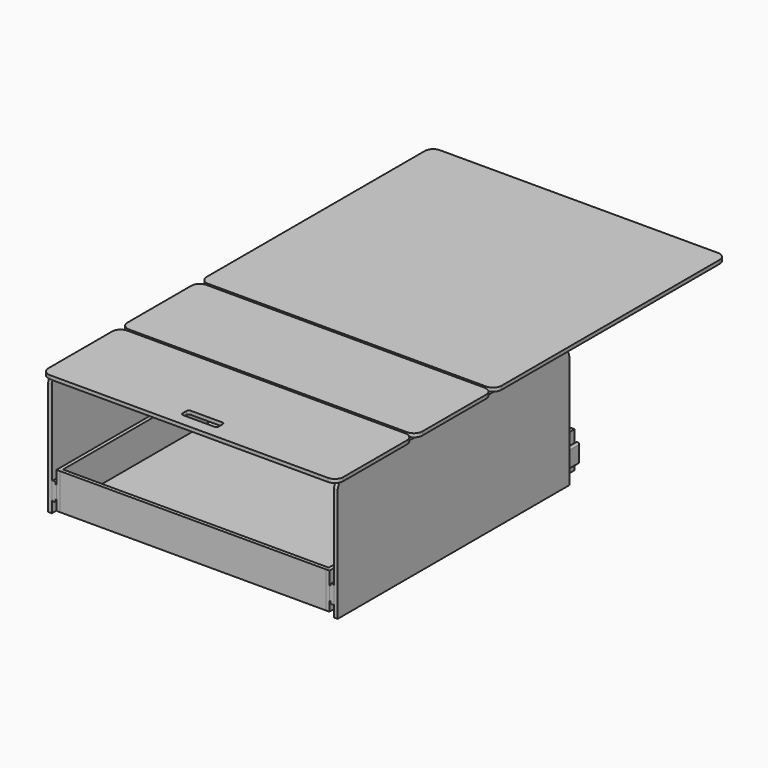
from build123d import *

# Parameters (mm, degrees)
F0_W      = 15
F0_H      = 1200
F1_DEPTH  = 500
F2_R      = 30
F2_2_R    = 30
F4_W      = 1222
F4_H      = 1200
F5_DEPTH  = 15
F6_W      = 1222
F6_H      = 400
F7_DEPTH  = 15
F8_W      = 1222
F8_H      = 400
F8_W_2    = 150
F8_H_2    = 40
F9_DEPTH  = 15
F10_R     = 10
F11_R     = 35
F11_2_R   = 35
F11_3_R   = 35
F13_W     = 1101.2
F13_H     = 1240
F14_DEPTH = 15
F15_W     = 1101.2
F15_H     = 150
F16_DEPTH = 15
F17_W     = 1101.2
F17_H     = 150
F18_DEPTH = 15
F19_W     = 1270
F19_H     = 150
F20_DEPTH = 15
F21_W     = 1270
F21_H     = 150
F22_DEPTH = 15
F24_DEPTH = 1270
F25_W     = 1160
F25_H     = 60
F26_DEPTH = 12


with BuildPart() as f1:
    # F0 (on Top) → F1 (new body)
    with BuildSketch(Plane.XY):
        with Locations((592.5, 600)):
            Rectangle(F0_W, F0_H)
    extrude(amount=F1_DEPTH)

    # F2#2
    f2_2_edges = [f1.edges().sort_by_distance(p)[0] for p in [
        (592.5, 1200, 500),
        (592.5, 0, 500),
    ]]
    fillet(f2_2_edges, radius=F2_2_R)


with BuildPart() as f1b:
    # F0 (on Top) → F1, piece 2 (new body)
    with BuildSketch(Plane.XY):
        with Locations((-592.5, 600)):
            Rectangle(F0_W, F0_H)
    extrude(amount=F1_DEPTH)

    # F2
    f2_edges = [f1b.edges().sort_by_distance(p)[0] for p in [
        (-592.5, 0, 500),
        (-592.5, 1200, 500),
    ]]
    fillet(f2_edges, radius=F2_R)


with BuildPart() as f5:
    # F4 (on offset) → F5 (new body)
    with BuildSketch(Plane.XY.offset(500)):
        with Locations((0, 1400)):
            Rectangle(F4_W, F4_H)
    extrude(amount=F5_DEPTH)

    # F11#2
    f11_2_edges = [f5.edges().sort_by_distance(p)[0] for p in [
        (-611, 2000, 507.5),
        (611, 2000, 507.5),
        (611, 800, 507.5),
        (-611, 800, 507.5),
    ]]
    fillet(f11_2_edges, radius=F11_2_R)


with BuildPart() as f7:
    # F6 (on offset) → F7 (new body)
    with BuildSketch(Plane.XY.offset(500)):
        with Locations((0, 590)):
            Rectangle(F6_W, F6_H)
    extrude(amount=F7_DEPTH)

    # F11#3
    f11_3_edges = [f7.edges().sort_by_distance(p)[0] for p in [
        (611, 790, 507.5),
        (611, 390, 507.5),
        (-611, 790, 507.5),
        (-611, 390, 507.5),
    ]]
    fillet(f11_3_edges, radius=F11_3_R)


with BuildPart() as f9:
    # F8 (on offset) → F9 (new body)
    with BuildSketch(Plane.XY.offset(500)):
        with Locations((0, 180)):
            Rectangle(F8_W, F8_H)
        with Locations((0, 50)):
            Rectangle(F8_W_2, F8_H_2, mode=Mode.SUBTRACT)
    extrude(amount=F9_DEPTH)

    # F10
    f10_edges = [f9.edges().sort_by_distance(p)[0] for p in [
        (-75, 70, 507.5),
        (75, 70, 507.5),
        (75, 30, 507.5),
        (-75, 30, 507.5),
    ]]
    fillet(f10_edges, radius=F10_R)

    # F11
    f11_edges = [f9.edges().sort_by_distance(p)[0] for p in [
        (611, -20, 507.5),
        (-611, -20, 507.5),
        (611, 380, 507.5),
        (-611, 380, 507.5),
    ]]
    fillet(f11_edges, radius=F11_R)


with BuildPart() as f14:
    # F13 (on offset) → F14 (new body)
    with BuildSketch(Plane.XY.offset(15)):
        with Locations((0, 635)):
            Rectangle(F13_W, F13_H)
    extrude(amount=F14_DEPTH)


with BuildPart() as f16:
    # F15 (on Front) → F16 (new body)
    with BuildSketch(Plane.XZ):
        with Locations((0, 90)):
            Rectangle(F15_W, F15_H)
    extrude(amount=-F16_DEPTH)


with BuildPart() as f18:
    # F17 (on face) → F18 (new body)
    with BuildSketch(Plane(origin=(0, 1255, 0), x_dir=(-1, 0, 0), z_dir=(0, 1, 0))):
        with Locations((0, 90)):
            Rectangle(F17_W, F17_H)
    extrude(amount=F18_DEPTH)


with BuildPart() as f20:
    # F19 (on face) → F20 (new body)
    with BuildSketch(Plane.YZ.offset(550.6)):
        with Locations((635, 90)):
            Rectangle(F19_W, F19_H)
    extrude(amount=F20_DEPTH)


with BuildPart() as f22:
    # F21 (on face) → F22 (new body)
    with BuildSketch(Plane(origin=(-550.6, 0, 0), x_dir=(0, -1, 0), z_dir=(-1, 0, 0))):
        with Locations((-635, 90)):
            Rectangle(F21_W, F21_H)
    extrude(amount=F22_DEPTH)


with BuildPart() as f24:
    # F23 (on Front) → F24 (new body)
    with BuildSketch(Plane.XZ):
        with BuildLine():
            Line((576, 45), (579, 45))
            ThreePointArc((579, 45), (583.2426406871, 46.7573593129), (585, 51))
            Line((585, 51), (585, 115.2))
            ThreePointArc((585, 115.2), (583.2426406871, 119.4426406871), (579, 121.2))
            Line((579, 121.2), (576, 121.2))
            ThreePointArc((576, 121.2), (571.7573593129, 119.4426406871), (570, 115.2))
            Line((570, 115.2), (570, 111.2))
            Line((570, 111.2), (570, 55))
            Line((570, 55), (570, 51))
            ThreePointArc((570, 51), (571.7573593129, 46.7573593129), (576, 45))
        make_face()
        with BuildLine():
            Line((567.9, 55), (570, 55))
            Line((570, 55), (570, 111.2))
            Line((570, 111.2), (567.9, 111.2))
            ThreePointArc((567.9, 111.2), (566.4857864376, 110.6142135624), (565.9, 109.2))
            Line((565.9, 109.2), (565.9, 57))
            ThreePointArc((565.9, 57), (566.4857864376, 55.5857864376), (567.9, 55))
        make_face()
    extrude(amount=-F24_DEPTH)


with BuildPart() as f24b:
    # F23 (on Front) → F24, piece 2 (new body)
    with BuildSketch(Plane.XZ):
        with BuildLine():
            ThreePointArc((-567.9, 55), (-566.4857864376, 55.5857864376), (-565.9, 57))
            Line((-565.9, 57), (-565.9, 109.2))
            ThreePointArc((-565.9, 109.2), (-566.4857864376, 110.6142135624), (-567.9, 111.2))
            Line((-567.9, 111.2), (-570, 111.2))
            Line((-570, 111.2), (-570, 55))
            Line((-570, 55), (-567.9, 55))
        make_face()
        with BuildLine():
            Line((-570, 51), (-570, 55))
            Line((-570, 55), (-570, 111.2))
            Line((-570, 111.2), (-570, 115.2))
            ThreePointArc((-570, 115.2), (-571.7573593129, 119.4426406871), (-576, 121.2))
            Line((-576, 121.2), (-579, 121.2))
            ThreePointArc((-579, 121.2), (-583.2426406871, 119.4426406871), (-585, 115.2))
            Line((-585, 115.2), (-585, 51))
            ThreePointArc((-585, 51), (-583.2426406871, 46.7573593129), (-579, 45))
            Line((-579, 45), (-576, 45))
            ThreePointArc((-576, 45), (-571.7573593129, 46.7573593129), (-570, 51))
        make_face()
    extrude(amount=-F24_DEPTH)


with BuildPart() as f26:
    # F25 (on face) → F26 (new body)
    with BuildSketch(Plane(origin=(0, 0, 500), x_dir=(1, 0, 0), z_dir=(0, 0, -1))):
        with Locations((0, -320)):
            Rectangle(F25_W, F25_H)
    extrude(amount=F26_DEPTH)


solid = Compound([f1.part, f1b.part, f5.part, f7.part, f9.part, f14.part, f16.part, f18.part, f20.part, f22.part, f24.part, f24b.part, f26.part])
